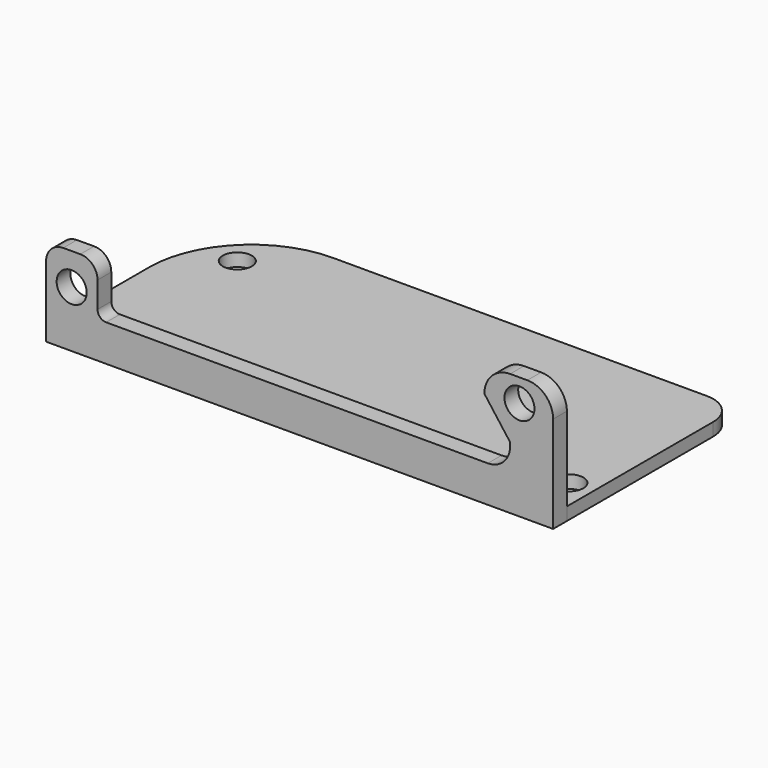
from build123d import *

# Parameters (mm, degrees)
SKETCH001_R       = 1.687519
PAD001_DEPTH      = 1.5
SKETCH_R          = 1.746092
PAD_DEPTH         = 2
FUSION_ROLL_ANGLE = 90


with BuildPart() as base_and_horizontal_holder:
    # Sketch001 → Pad001 (new body)
    with BuildSketch(Plane.XZ.offset(1.2525)):
        with BuildLine():
            Line((10.979984, 0), (69.999984, 0))
            Line((69.999984, 0), (69.999984, -21.282469))
            ThreePointArc((66.378106, -24.904346), (68.93916, -23.843523), (69.999984, -21.282469))
            Line((22.859289, -24.904346), (66.378106, -24.904346))
            ThreePointArc((10.979984, -13.025041), (14.459352, -21.424978), (22.859289, -24.904346))
            Line((10.979984, 0), (10.979984, -13.025041))
        make_face()
        with Locations((67.250752, -3.727469)):
            Circle(SKETCH001_R, mode=Mode.SUBTRACT)
        with Locations((16.457752, -18.999969)):
            Circle(SKETCH001_R, mode=Mode.SUBTRACT)
    extrude(amount=-PAD001_DEPTH)


with BuildPart() as obj1:
    # Sketch → Pad (new body)
    with BuildSketch(Plane.XY):
        with BuildLine():
            Line((11.012519, -1.25328), (11.012519, 6.997142))
            ThreePointArc((13.001287, 8.992943), (11.59459, 8.405902), (11.012519, 6.997142))
            Line((13.001287, 8.992943), (15, 9))
            ThreePointArc((16.997615, 7.009425), (16.412099, 8.419465), (15, 9))
            Line((16.997615, 7.009425), (16.997615, 4))
            ThreePointArc((16.997615, 4), (17.290509, 3.292893), (17.997615, 3))
            Line((17.997615, 3), (62, 3))
            Line((62, 3), (62.401287, 3))
            ThreePointArc((62.401287, 3), (64.238855, 3.761145), (65, 5.598713))
            Line((65, 5.598713), (65, 6))
            Line((65, 6), (62, 10))
            ThreePointArc((65, 13), (62.87868, 12.12132), (62, 10))
            Line((65, 13), (67, 13))
            ThreePointArc((70, 10), (69.12132, 12.12132), (67, 13))
            Line((70, 10), (70, -1.25328))
            Line((11.012519, -1.25328), (70, -1.25328))
        make_face()
        with Locations((13.988471, 5.299093)):
            Circle(SKETCH_R, mode=Mode.SUBTRACT)
        with Locations((66.082271, 10.342403)):
            Circle(SKETCH_R, mode=Mode.SUBTRACT)
    extrude(amount=PAD_DEPTH)

    # Fusion: union base_and_horizontal_holder
    add(base_and_horizontal_holder.part)


with BuildPart() as obj1_1:
    # Fusion roll: moved
    add(obj1.part.rotate(Axis((0, 0, 0), (1, 0, 0)), FUSION_ROLL_ANGLE))


with BuildPart() as obj1_2:
    # Fusion placement: moved
    add(obj1_1.part.moved(Location((-10.98, 2, 1.25))))


solid = obj1_2.part
